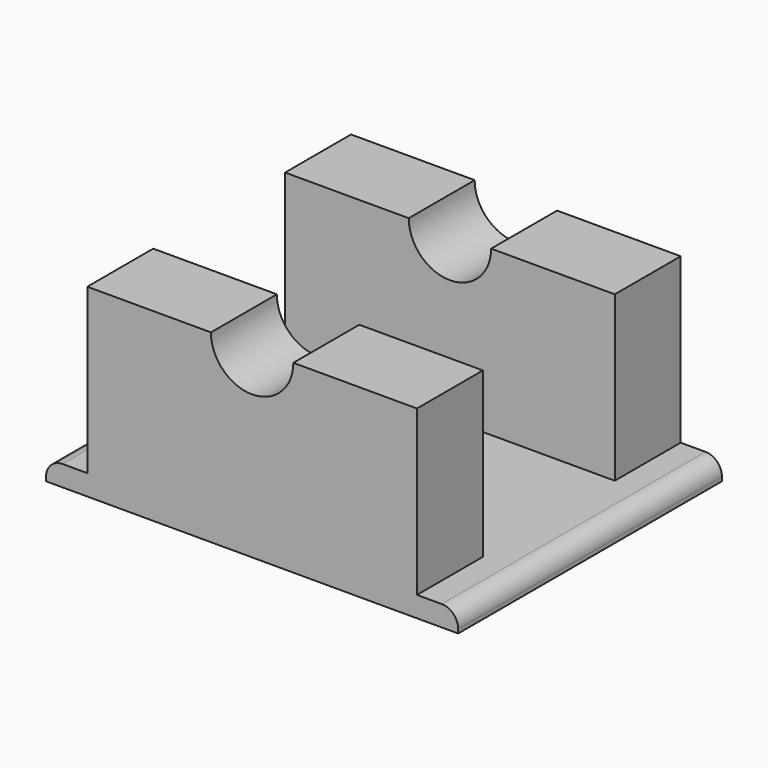
from build123d import *

# Parameters (mm, degrees)
F0_W     = 127
F0_H     = 101.6
F1_DEPTH = 6.35
F4_R     = 5.08
F5_DEPTH = 25.4


with BuildPart() as f1:
    # F0 (on Top) → F1 (new body)
    with BuildSketch(Plane.XY):
        Rectangle(F0_W, F0_H)
    extrude(amount=F1_DEPTH)

    # F4
    f4_edges = [f1.edges().sort_by_distance(p)[0] for p in [
        (63.5, 0, 6.35),
        (-63.5, 0, 6.35),
    ]]
    fillet(f4_edges, radius=F4_R)

    # F3 (on offset) → F5 (join)
    with BuildSketch(Plane.XZ.offset(25.4)):
        with BuildLine():
            Line((-50.8, 6.127627), (50.8, 6.127627))
            Line((50.8, 6.127627), (50.8, 56.927627))
            Line((50.8, 56.927627), (12.7, 56.927627))
            ThreePointArc((12.7, 56.927627), (0, 44.227627), (-12.7, 56.927627))
            Line((-12.7, 56.927627), (-50.8, 56.927627))
            Line((-50.8, 56.927627), (-50.8, 6.127627))
        make_face()
    extrude(amount=F5_DEPTH)

    # F6: F1 across plane


with BuildPart() as f1_1:
    add(f1.part)
    add(f1.part.mirror(Plane.XZ))


solid = f1_1.part
